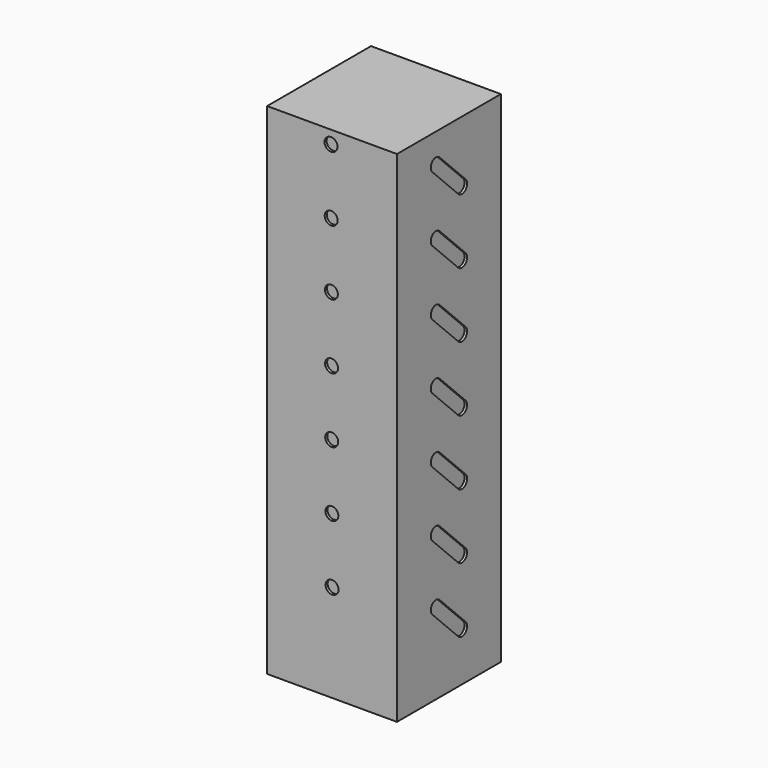
from build123d import *

# Parameters (mm, degrees)
F1_DEPTH  = 77
F3_R      = 1
F4_DEPTH  = 0.4
F1_FACE_W = 20
F1_FACE_H = 77
F7_DEPTH  = 0.4
F10_DEPTH = 0.4


with BuildPart() as f1:
    # F0 (on Top) → F1 (new body)
    with BuildSketch(Plane.XY):
        with BuildLine():
            ThreePointArc((-10, 0), (-7.0710678119, 7.0710678119), (0, 10))
            Line((0, 10), (-10, 10))
            Line((-10, 10), (-10, 0))
        make_face()
        with BuildLine():
            Line((-10, -10), (0, -10))
            ThreePointArc((0, -10), (-7.0710678119, -7.0710678119), (-10, 0))
            Line((-10, 0), (-10, -10))
        make_face()
        with BuildLine():
            Line((10, -10), (10, 0))
            ThreePointArc((10, 0), (7.0710678119, -7.0710678119), (0, -10))
            Line((0, -10), (10, -10))
        make_face()
        with BuildLine():
            ThreePointArc((0, 10), (7.0710678119, 7.0710678119), (10, 0))
            Line((10, 0), (10, 10))
            Line((10, 10), (0, 10))
        make_face()
        with BuildLine():
            ThreePointArc((0, -10), (7.0710678119, -7.0710678119), (10, 0))
            ThreePointArc((10, 0), (7.0710678119, 7.0710678119), (0, 10))
            ThreePointArc((0, 10), (-7.0710678119, 7.0710678119), (-10, 0))
            ThreePointArc((-10, 0), (-7.0710678119, -7.0710678119), (0, -10))
        make_face()
    extrude(amount=F1_DEPTH)

    # F3 (on offset) → F4 (cut)
    with BuildSketch(Plane.XZ.offset(10)):
        with Locations((0, 15)):
            Circle(F3_R)
        with Locations((-0.0265743064, 24.9999646902)):
            Circle(F3_R)
        with Locations((-0.0531486127, 34.9999293805)):
            Circle(F3_R)
        with Locations((-0.0797229191, 44.9998940707)):
            Circle(F3_R)
        with Locations((-0.1062972255, 54.999858761)):
            Circle(F3_R)
        with Locations((-0.1328715318, 64.9998234512)):
            Circle(F3_R)
        with Locations((-0.1594458382, 74.9997881415)):
            Circle(F3_R)
    extrude(amount=-F4_DEPTH, mode=Mode.SUBTRACT)

    # F6 (on offset) + F1_face (on face) → F7 (cut)
    with BuildSketch(Plane.YZ.offset(10)):
        with BuildLine():
            ThreePointArc((-1.7928932188, 13.2071067812), (-3.2071067812, 13.2071067812), (-3.2071067812, 11.7928932188))
            Line((-3.2071067812, 11.7928932188), (1.7928932188, 6.7928932188))
            ThreePointArc((1.7928932188, 6.7928932188), (3.2071067812, 6.7928932188), (3.2071067812, 8.2071067812))
            Line((3.2071067812, 8.2071067812), (-1.7928932188, 13.2071067812))
        make_face()
        with BuildLine():
            ThreePointArc((-1.7928932188, 23.2071067812), (-3.2071067812, 23.2071067812), (-3.2071067812, 21.7928932188))
            Line((-3.2071067812, 21.7928932188), (1.7928932188, 16.7928932188))
            ThreePointArc((1.7928932188, 16.7928932188), (3.2071067812, 16.7928932188), (3.2071067812, 18.2071067812))
            Line((3.2071067812, 18.2071067812), (-1.7928932188, 23.2071067812))
        make_face()
        with BuildLine():
            ThreePointArc((-1.7928932188, 33.2071067812), (-3.2071067812, 33.2071067812), (-3.2071067812, 31.7928932188))
            Line((-3.2071067812, 31.7928932188), (1.7928932188, 26.7928932188))
            ThreePointArc((1.7928932188, 26.7928932188), (3.2071067812, 26.7928932188), (3.2071067812, 28.2071067812))
            Line((3.2071067812, 28.2071067812), (-1.7928932188, 33.2071067812))
        make_face()
        with BuildLine():
            ThreePointArc((-1.7928932188, 43.2071067812), (-3.2071067812, 43.2071067812), (-3.2071067812, 41.7928932188))
            Line((-3.2071067812, 41.7928932188), (1.7928932188, 36.7928932188))
            ThreePointArc((1.7928932188, 36.7928932188), (3.2071067812, 36.7928932188), (3.2071067812, 38.2071067812))
            Line((3.2071067812, 38.2071067812), (-1.7928932188, 43.2071067812))
        make_face()
        with BuildLine():
            ThreePointArc((-1.7928932188, 53.2071067812), (-3.2071067812, 53.2071067812), (-3.2071067812, 51.7928932188))
            Line((-3.2071067812, 51.7928932188), (1.7928932188, 46.7928932188))
            ThreePointArc((1.7928932188, 46.7928932188), (3.2071067812, 46.7928932188), (3.2071067812, 48.2071067812))
            Line((3.2071067812, 48.2071067812), (-1.7928932188, 53.2071067812))
        make_face()
        with BuildLine():
            ThreePointArc((-1.7928932188, 63.2071067812), (-3.2071067812, 63.2071067812), (-3.2071067812, 61.7928932188))
            Line((-3.2071067812, 61.7928932188), (1.7928932188, 56.7928932188))
            ThreePointArc((1.7928932188, 56.7928932188), (3.2071067812, 56.7928932188), (3.2071067812, 58.2071067812))
            Line((3.2071067812, 58.2071067812), (-1.7928932188, 63.2071067812))
        make_face()
        with BuildLine():
            ThreePointArc((-1.7928932188, 73.2071067812), (-3.2071067812, 73.2071067812), (-3.2071067812, 71.7928932188))
            Line((-3.2071067812, 71.7928932188), (1.7928932188, 66.7928932188))
            ThreePointArc((1.7928932188, 66.7928932188), (3.2071067812, 66.7928932188), (3.2071067812, 68.2071067812))
            Line((3.2071067812, 68.2071067812), (-1.7928932188, 73.2071067812))
        make_face()
    with BuildSketch(Plane(origin=(-10, 0, 38.5), x_dir=(0, -1, 0), z_dir=(-1, 0, 0))):
        Rectangle(F1_FACE_W, F1_FACE_H)
    extrude(amount=-F7_DEPTH, dir=(1, 0, 0), mode=Mode.SUBTRACT)

    # F9 (on offset) → F10 (cut)
    with BuildSketch(Plane.XZ.offset(-10)):
        Polygon((2.8867513459, 12.5), (-2.8867513459, 12.5), (0, 7.5), align=None)
        Polygon((-2.8867513459, 22.5), (0, 17.5), (2.8867513459, 22.5), align=None)
        Polygon((-2.8867513459, 32.5), (0, 27.5), (2.8867513459, 32.5), align=None)
        Polygon((-2.8867513459, 42.5), (0, 37.5), (2.8867513459, 42.5), align=None)
        Polygon((-2.8867513459, 52.5), (0, 47.5), (2.8867513459, 52.5), align=None)
        Polygon((-2.8867513459, 62.5), (0, 57.5), (2.8867513459, 62.5), align=None)
        Polygon((-2.8867513459, 72.5), (0, 67.5), (2.8867513459, 72.5), align=None)
    extrude(amount=F10_DEPTH, mode=Mode.SUBTRACT)


solid = f1.part
